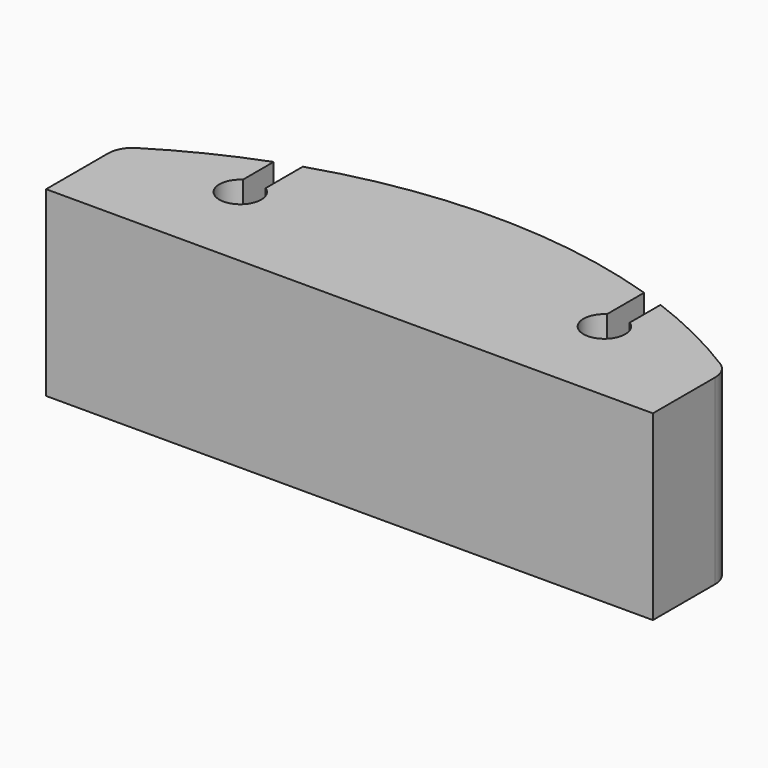
from build123d import *

# Parameters (mm, degrees)
F1_DEPTH = 38.1
F2_R     = 5.08
F3_R     = 5.08


with BuildPart() as f1:
    # F0 (on Top) → F1 (new body)
    with BuildSketch(Plane.XY):
        with BuildLine():
            Line((-50.721363, 19.05), (-50.721363, 0))
            Line((-50.721363, 0), (76.278637, 0))
            Line((76.278637, 0), (76.278637, 19.05))
            ThreePointArc((76.278637, 19.05), (65.101151, 25.551684), (53.266237, 30.761569))
            Line((53.266237, 30.761569), (53.266237, 22.708658))
            ThreePointArc((53.266237, 22.708658), (50.878637, 14.6812), (48.491037, 22.708658))
            Line((48.491037, 22.708658), (48.491037, 32.432913))
            ThreePointArc((48.491037, 32.432913), (12.778637, 38.1), (-22.933763, 32.432913))
            Line((-22.933763, 32.432913), (-22.933763, 22.708658))
            ThreePointArc((-22.933763, 22.708658), (-25.321363, 14.6812), (-27.708963, 22.708658))
            Line((-27.708963, 22.708658), (-27.708963, 30.761569))
            ThreePointArc((-27.708963, 30.761569), (-39.543877, 25.551684), (-50.721363, 19.05))
        make_face()
    extrude(amount=F1_DEPTH)

    # F2
    f2_edges = [f1.edges().sort_by_distance(p)[0] for p in [
        (-50.721363, 19.05, 19.05),
    ]]
    fillet(f2_edges, radius=F2_R)

    # F3
    f3_edges = [f1.edges().sort_by_distance(p)[0] for p in [
        (76.278637, 19.05, 19.05),
    ]]
    fillet(f3_edges, radius=F3_R)


solid = f1.part
